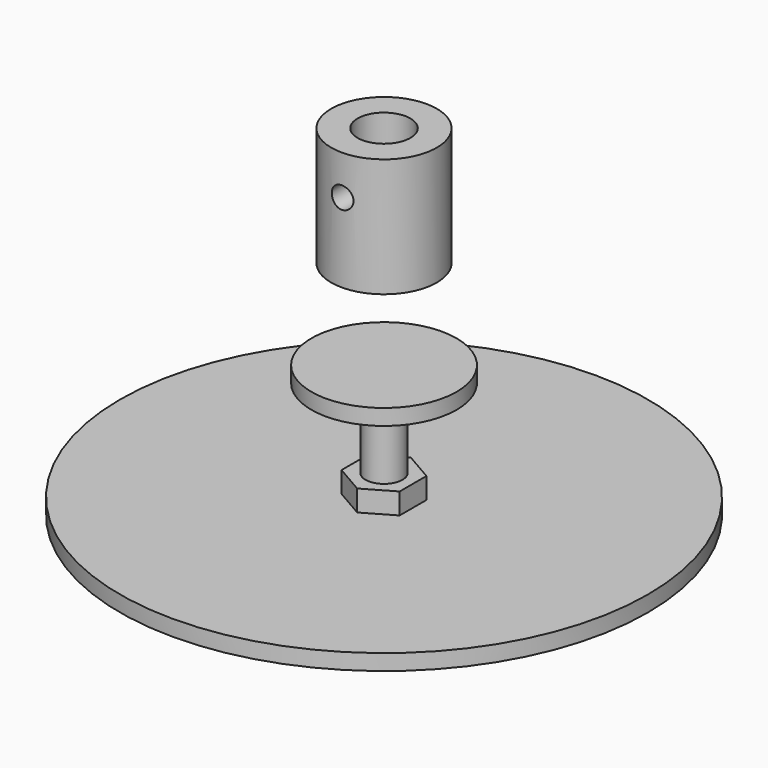
from build123d import *

# Parameters (mm, degrees)
F0_R      = 27.5
F1_DEPTH  = 6
F2_R      = 7
F3_DEPTH  = 30
F4_R      = 7
F5_DEPTH  = 8
F6_R      = 100
F6_R_2    = 7
F7_DEPTH  = 6
F10_D     = 8.2
F10_DEPTH = 30
F10_TIP   = 2.463528538
F11_D     = 8.2
F11_DEPTH = 30
F11_START = 10.0000001
F11_TIP   = 2.463528538


with BuildPart() as f1:
    # F0 (on Top) → F1 (new body)
    with BuildSketch(Plane.XY):
        Circle(F0_R)
    extrude(amount=F1_DEPTH)

    # F2 (on face) → F3 (join)
    with BuildSketch(Plane.XY):
        Circle(F2_R)
    extrude(amount=-F3_DEPTH)


with BuildPart() as f5:
    # F4 (on face) → F5 (new body)
    with BuildSketch(Plane(origin=(0, 0, -30), x_dir=(1, 0, 0), z_dir=(0, 0, -1))):
        Polygon((11, -6.3508529611), (11, 6.3508529611), (0, 12.7017059222), (-11, 6.3508529611), (-11, -6.3508529611), (0, -12.7017059222), align=None)
        Circle(F4_R, mode=Mode.SUBTRACT)
    extrude(amount=F5_DEPTH)

    # F6 (on face) → F7 (join)
    with BuildSketch(Plane(origin=(0, 0, -38), x_dir=(1, 0, 0), z_dir=(0, 0, -1))):
        Circle(F6_R)
        Polygon((11, -6.3508529611), (0, -12.7017059222), (-11, -6.3508529611), (-11, 6.3508529611), (0, 12.7017059222), (11, 6.3508529611), align=None, mode=Mode.SUBTRACT)
        Polygon((-11, -6.3508529611), (0, -12.7017059222), (11, -6.3508529611), (11, 6.3508529611), (0, 12.7017059222), (-11, 6.3508529611), align=None)
        Circle(F6_R_2, mode=Mode.SUBTRACT)
        Circle(F6_R_2)
    extrude(amount=F7_DEPTH)


with BuildPart() as f9:
    # F8 (on Front) → F9 (revolve)
    with BuildSketch(Plane.XZ):
        Polygon((-20, 40), (0, 40), (0, 57), (-10, 57), (-10, 85), (-20, 85), align=None)
    revolve(axis=Axis((0, 0, 48.5), (0, 0, 1)))

    # F10 (one way)
    with BuildSketch(Plane.XZ):
        with Locations((0, 70)):
            Circle(F10_D / 2)
    extrude(amount=-F10_DEPTH, mode=Mode.SUBTRACT)
    with Locations(Plane.XZ):
        with Locations((0, 70)):
            with Locations((0, 0, -(F10_DEPTH + F10_TIP / 2))):  # 118° drill point
                Cone(0, F10_D / 2, F10_TIP, mode=Mode.SUBTRACT)

    # F11
    # its depths count from where the whole tool has entered the part; down to there all is cleared
    with Locations(Plane(origin=(0, 0, 0), x_dir=(1, 0, 0), z_dir=(0, 1, 0)).offset(-F11_START)):
        with Locations((0, -70)):
            Hole(F11_D / 2, depth=F11_DEPTH)
            with Locations((0, 0, -(F11_DEPTH + F11_TIP / 2))):  # 118° drill point
                Cone(0, F11_D / 2, F11_TIP, mode=Mode.SUBTRACT)


solid = Compound([f1.part, f5.part, f9.part])
